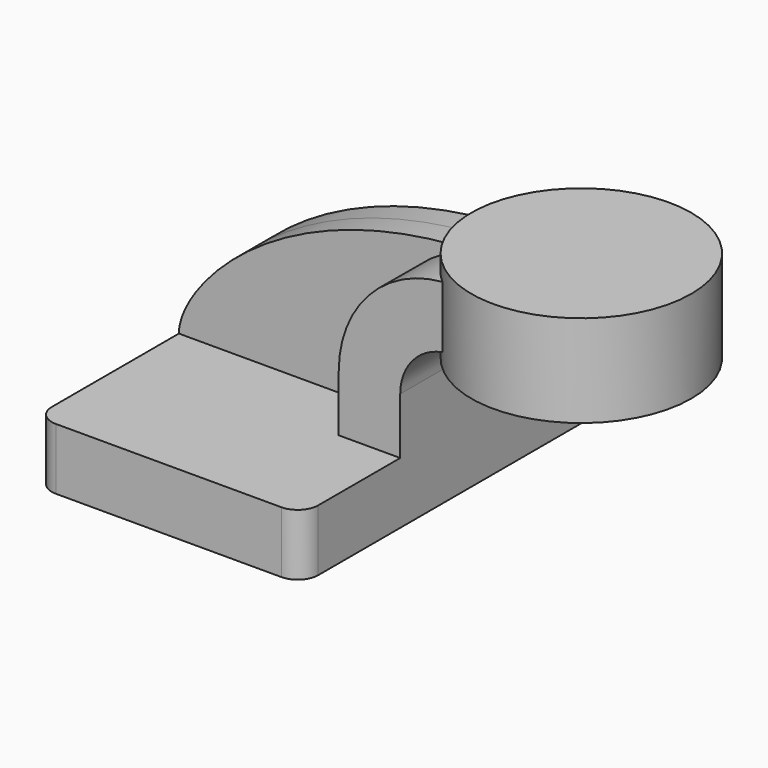
from build123d import *

# Parameters (mm, degrees)
F1_DEPTH = 63.5
F0_W     = 16.735083
F0_H     = 4.7498
F2_DEPTH = 25.4
F3_DEPTH = 7.9375
F5_R     = 6.35


with BuildPart() as f1:
    # F0 (on Front) → F1 (new body, symmetric)
    with BuildSketch(Plane.XZ):
        Polygon((41.275, -9.525), (41.275, 9.525), (22.225, 9.525), (-41.275, 9.525), (-41.275, -9.525), align=None)
    extrude(amount=F1_DEPTH, both=True)

    # F0 (on Front) → F2 (join, symmetric)
    with BuildSketch(Plane.XZ):
        with Locations((68.692541, 64.3001)):
            Rectangle(F0_W, F0_H)
        with BuildLine():
            Line((22.225, 9.525), (41.275, 9.525))
            Line((41.275, 9.525), (41.275, 27.0002))
            ThreePointArc((41.275, 27.0002), (45.92468, 38.22552), (57.15, 42.8752))
            Line((57.15, 42.8752), (60.325, 42.8752))
            Line((60.325, 42.8752), (60.325, 61.9252))
            Line((60.325, 61.9252), (57.15, 61.9252))
            ThreePointArc((57.15, 61.9252), (32.454296, 51.695904), (22.225, 27.0002))
            Line((22.225, 27.0002), (22.225, 9.525))
        make_face()
    extrude(amount=F2_DEPTH, both=True)

    # F0 (on Front) → F3 (join, symmetric)
    with BuildSketch(Plane.XZ):
        with BuildLine():
            Line((-41.275, 9.525), (22.225, 9.525))
            Line((22.225, 9.525), (22.225, 27.0002))
            ThreePointArc((22.225, 27.0002), (32.454296, 51.695904), (57.15, 61.9252))
            add(Edge.make_bspline(
                [(-41.275, 9.525), (-41.275, 23.724295), (-9.110224, 61.9252), (57.15, 61.9252)],
                knots=[0, 0, 0, 0, 111.504536, 111.504536, 111.504536, 111.504536], degree=3))
        make_face()
    extrude(amount=F3_DEPTH, both=True)

    # F0 (on Front) → F4 (revolve)
    with BuildSketch(Plane.XZ):
        Polygon((77.060083, 61.9252), (77.060083, 42.8752), (77.060083, 38.1), (111.125, 38.1), (111.125, 66.675), (77.060083, 66.675), align=None)
    revolve(axis=Axis((77.060083, 0, 52.3875), (0, 0, 1)))

    # F5
    f5_edges = [f1.edges().sort_by_distance(p)[0] for p in [
        (41.275, -63.5, 0),
        (-41.275, -63.5, 0),
        (-41.275, 63.5, 0),
        (41.275, 63.5, 0),
    ]]
    fillet(f5_edges, radius=F5_R)


solid = f1.part
